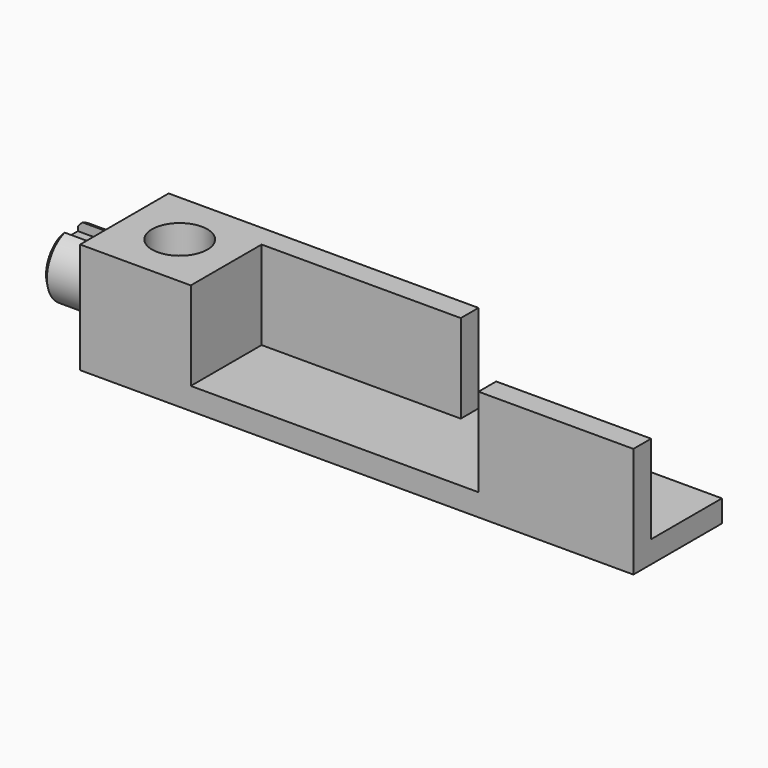
from build123d import *

# Parameters (mm, degrees)
F1_DEPTH  = 25
F2_W      = 90
F2_H      = 10
F2_W_2    = 70
F3_DEPTH  = 40
F4_R      = 15
F5_DEPTH  = 25
F6_SIZE   = 2
F8_D      = 25
F10_DEPTH = 25


with BuildPart() as f1:
    # F0 (on Front) → F1 (new body, symmetric)
    with BuildSketch(Plane.XZ):
        Polygon((-250, 0), (0, 0), (0, 10), (-200, 10), (-200, 50), (-250, 50), align=None)
    extrude(amount=F1_DEPTH, both=True)

    # F2 (on face) → F3 (join)
    with BuildSketch(Plane.XY.offset(10)):
        with Locations((-155, 20)):
            Rectangle(F2_W, F2_H)
        with Locations((-35, -20)):
            Rectangle(F2_W_2, F2_H)
    extrude(amount=F3_DEPTH)

    # F4 (on face) → F5 (join)
    with BuildSketch(Plane(origin=(-250, 0, 0), x_dir=(0, -1, 0), z_dir=(-1, 0, 0))):
        with Locations((0, 25)):
            Circle(F4_R)
    extrude(amount=F5_DEPTH)

    # F6
    f6_edges = [f1.edges().sort_by_distance(p)[0] for p in [
        (-275, 15, 25),
    ]]
    chamfer(f6_edges, length=F6_SIZE)

    # F8 (through all)
    with Locations(Plane.XY.offset(50)):
        with Locations((-225, 0)):
            Hole(F8_D / 2)

    # F9 (on face) → F10 (cut, through all)
    with BuildSketch(Plane(origin=(-275, 0, 0), x_dir=(0, -1, 0), z_dir=(-1, 0, 0))):
        with BuildLine():
            Line((5, 42), (-5, 42))
            Line((-5, 42), (-5, 37))
            ThreePointArc((-5, 37), (0, 38), (5, 37))
            Line((5, 37), (5, 42))
        make_face()
        with BuildLine():
            ThreePointArc((5, 37), (0, 38), (-5, 37))
            Line((-5, 37), (-5, 35))
            Line((-5, 35), (5, 35))
            Line((5, 35), (5, 37))
        make_face()
    extrude(amount=-F10_DEPTH, mode=Mode.SUBTRACT)


solid = f1.part
